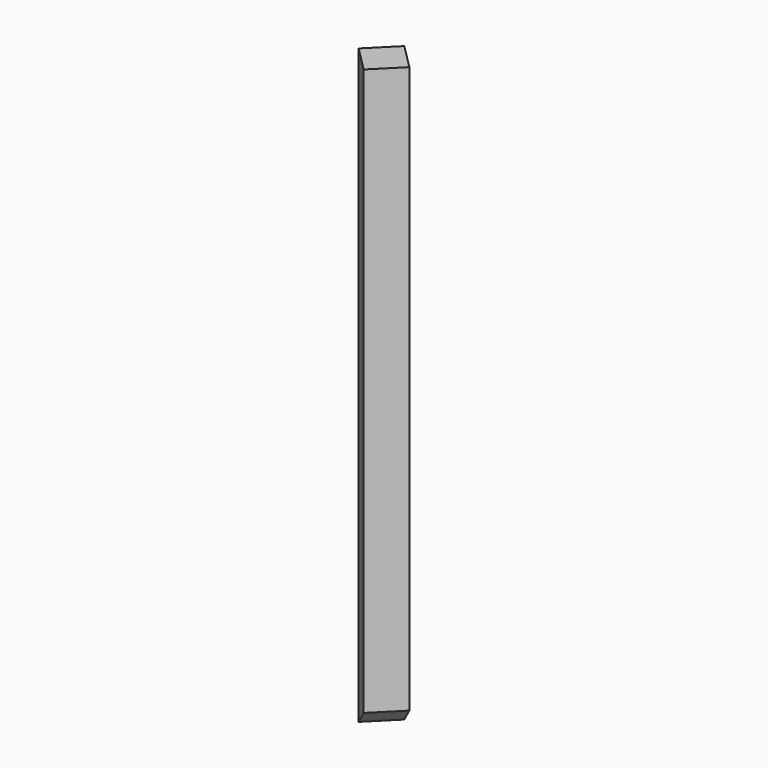
from build123d import *

# Parameters (mm, degrees)
EXTRUDE_DEPTH                     = 400
EXTRUDE_ONTO_SKETCH121_ROLL_ANGLE = 90
EXTRUDE_PLACEMENT_ANGLE           = -45


with BuildPart() as landing_leg:
    # Sketch121 as drawn → Extrude (new)
    with BuildSketch(Plane.XY):
        Polygon((2890, 6611.067627), (3289.277588, 6611.067627), (3289.277588, 1.812012), (2890, 296.711548), align=None)
    extrude(amount=EXTRUDE_DEPTH)


with BuildPart() as landing_leg_1:
    # Extrude onto Sketch121 roll: moved
    add(landing_leg.part.rotate(Axis((0, 0, 0), (1, 0, 0)), EXTRUDE_ONTO_SKETCH121_ROLL_ANGLE))


with BuildPart() as landing_leg_2:
    # Extrude onto Sketch121 placement: moved
    add(landing_leg_1.part)


with BuildPart() as landing_leg_3:
    # Extrude placement: moved
    add(landing_leg_2.part.moved(Location((1270, -1000, 0))).rotate(Axis((1270, -1000, 0), (0, 0, 1)), EXTRUDE_PLACEMENT_ANGLE))


with BuildPart() as part_mirroring004:
    # Part__Mirroring004: instance of landing leg
    add(landing_leg_3.part.mirror(Plane(origin=(0, 0, 0), x_dir=(0, -1, 0), z_dir=(1, 0, 0))))


with BuildPart() as part_mirroring006:
    # Part__Mirroring006: instance of Part__Mirroring004
    add(part_mirroring004.part.mirror(Plane(origin=(0, 0, 0), x_dir=(1, 0, 0), z_dir=(0, 1, 0))))


solid = part_mirroring006.part
